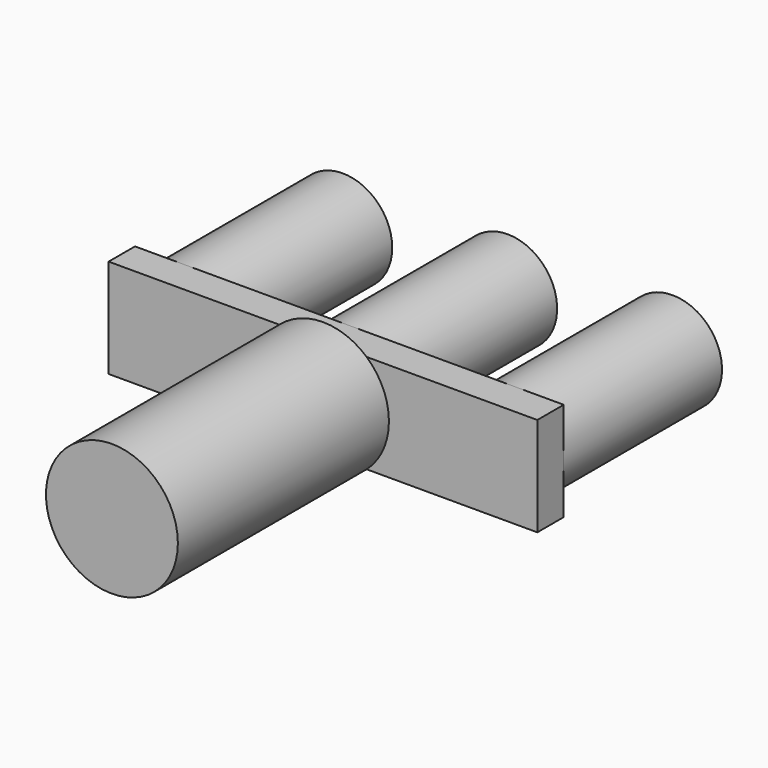
from build123d import *

# Parameters (mm, degrees)
F0_R     = 19.05
F1_DEPTH = 76.2
F2_W     = 165.1
F2_H     = 38.1
F3_DEPTH = 12.7
F4_R     = 25.4
F5_DEPTH = 101.6


with BuildPart() as f1:
    # F0 (on Front) → F1 (new body)
    with BuildSketch(Plane.XZ):
        with BuildLine():
            Line((0, 0), (19.05, 0))
            ThreePointArc((19.05, 0), (0, 19.05), (-19.05, 0))
            Line((-19.05, 0), (0, 0))
        make_face()
        with Locations((-63.5, 0)):
            Circle(F0_R)
        with BuildLine():
            ThreePointArc((-19.05, 0), (0, -19.05), (19.05, 0))
            Line((19.05, 0), (0, 0))
            Line((0, 0), (-19.05, 0))
        make_face()
        with BuildLine():
            ThreePointArc((82.55, 0), (63.5, 19.05), (44.45, 0))
            ThreePointArc((44.45, 0), (63.5, -19.05), (82.55, 0))
        make_face()
    extrude(amount=F1_DEPTH)


with BuildPart() as f3:
    # F2 (on face) → F3 (new body)
    with BuildSketch(Plane.XZ.offset(76.2)):
        Rectangle(F2_W, F2_H)
    extrude(amount=F3_DEPTH)

    # F4 (on face) → F5 (join)
    with BuildSketch(Plane.XZ.offset(88.9)):
        Circle(F4_R)
    extrude(amount=F5_DEPTH)


solid = Compound([f1.part, f3.part])
